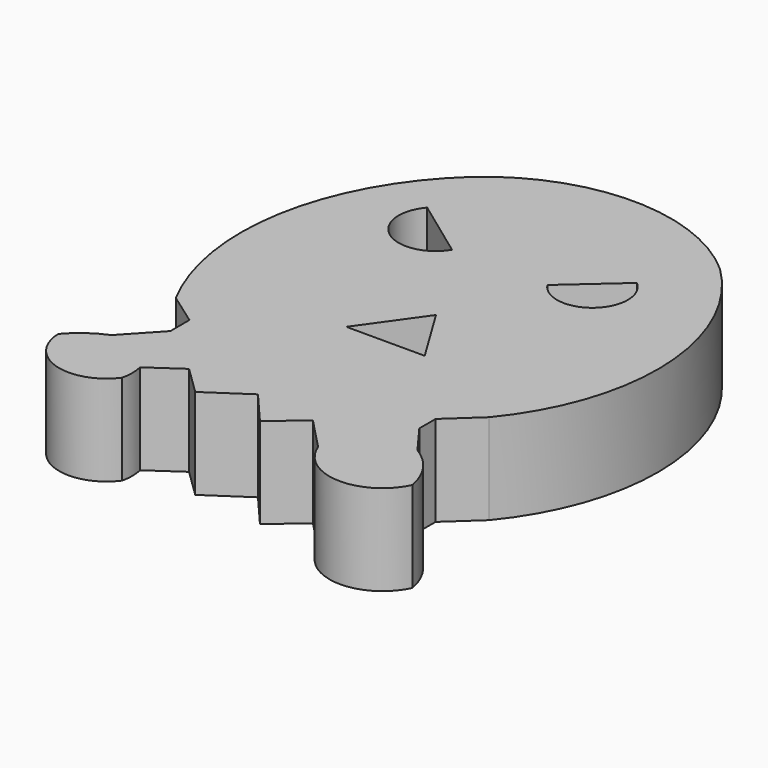
from build123d import *

# Parameters (mm, degrees)
F1_DEPTH = 8
F2_DEPTH = 25


with BuildPart() as f1:
    # F0 (on Top) → F1 (new body)
    with BuildSketch(Plane.XY):
        with BuildLine():
            Line((-49.977526, -41.605607), (-58.697784, -50.980339))
            ThreePointArc((-58.697784, -50.980339), (-55.746943, -49.98082), (-52.693043, -49.364224))
            ThreePointArc((-52.693043, -49.364224), (-47.439924, -53.121601), (-44.515088, -58.879941))
            Line((-44.515088, -58.879941), (-35.81804, -52.855607))
            Line((-35.81804, -52.855607), (-28.059421, -60.42026))
            Line((-28.059421, -60.42026), (-16.80702, -52.855607))
            Line((-16.80702, -52.855607), (-8.662867, -62.359914))
            Line((-8.662867, -62.359914), (0, -54.936784))
            Line((0, -54.936784), (8.631467, -63.911639))
            ThreePointArc((8.631467, -63.911639), (11.744426, -54.491495), (20.237995, -49.364224))
            ThreePointArc((20.237995, -49.364224), (23.355468, -50.303762), (26.277462, -51.740186))
            Line((26.277462, -51.740186), (20.237995, -43.545261))
            Line((20.237995, -43.545261), (20.237995, -37.920259))
            Line((20.237995, -37.920259), (28.72714, -30.080417))
            ThreePointArc((28.72714, -30.080417), (43.074733, 13.306863), (24.342671, 54.989226))
            ThreePointArc((24.342671, 54.989226), (-9.855567, 68.032469), (-44.127155, 55.183191))
            ThreePointArc((-44.127155, 55.183191), (-65.822797, 15.690348), (-58.705974, -28.803879))
            Line((-58.705974, -28.803879), (-49.977526, -35.010777))
            Line((-49.977526, -35.010777), (-49.977526, -41.605607))
        make_face()
        Polygon((0, -16.390087), (-21.627156, -16.390087), (-9.989223, 0), align=None, mode=Mode.SUBTRACT)
        with BuildLine():
            ThreePointArc((-26.282329, 25.894396), (-41.063186, 22.944871), (-42.769399, 37.920259))
            Line((-42.769399, 37.920259), (-26.282329, 25.894396))
        make_face(mode=Mode.SUBTRACT)
        with BuildLine():
            ThreePointArc((14.450433, 38.696121), (14.608633, 23.960948), (0, 25.894396))
            Line((0, 25.894396), (14.450433, 38.696121))
        make_face(mode=Mode.SUBTRACT)
    extrude(amount=F1_DEPTH)

    # F0 (on Top) → F2 (join)
    with BuildSketch(Plane.XY):
        with BuildLine():
            ThreePointArc((-54.989226, -57.375513), (-61.534535, -55.666613), (-67.984916, -57.704747))
            ThreePointArc((-67.984916, -57.704747), (-58.884264, -69.778136), (-44.515088, -65.075435))
            ThreePointArc((-44.515088, -65.075435), (-48.164701, -59.06607), (-54.989226, -57.375513))
        make_face()
        with BuildLine():
            ThreePointArc((-58.697784, -50.980339), (-63.740644, -53.791075), (-67.984916, -57.704747))
            ThreePointArc((-67.984916, -57.704747), (-61.534535, -55.666613), (-54.989226, -57.375513))
            ThreePointArc((-54.989226, -57.375513), (-48.164701, -59.06607), (-44.515088, -65.075435))
            ThreePointArc((-44.515088, -65.075435), (-44.157255, -61.977688), (-44.515088, -58.879941))
            ThreePointArc((-44.515088, -58.879941), (-47.439924, -53.121601), (-52.693043, -49.364224))
            ThreePointArc((-52.693043, -49.364224), (-55.746943, -49.98082), (-58.697784, -50.980339))
        make_face()
        with BuildLine():
            Line((-49.977526, -41.605607), (-58.697784, -50.980339))
            ThreePointArc((-58.697784, -50.980339), (-55.746943, -49.98082), (-52.693043, -49.364224))
            ThreePointArc((-52.693043, -49.364224), (-47.439924, -53.121601), (-44.515088, -58.879941))
            Line((-44.515088, -58.879941), (-35.81804, -52.855607))
            Line((-35.81804, -52.855607), (-28.059421, -60.42026))
            Line((-28.059421, -60.42026), (-16.80702, -52.855607))
            Line((-16.80702, -52.855607), (-8.662867, -62.359914))
            Line((-8.662867, -62.359914), (0, -54.936784))
            Line((0, -54.936784), (8.631467, -63.911639))
            ThreePointArc((8.631467, -63.911639), (11.744426, -54.491495), (20.237995, -49.364224))
            ThreePointArc((20.237995, -49.364224), (23.355468, -50.303762), (26.277462, -51.740186))
            Line((26.277462, -51.740186), (20.237995, -43.545261))
            Line((20.237995, -43.545261), (20.237995, -37.920259))
            Line((20.237995, -37.920259), (28.72714, -30.080417))
            ThreePointArc((28.72714, -30.080417), (43.074733, 13.306863), (24.342671, 54.989226))
            ThreePointArc((24.342671, 54.989226), (-9.855567, 68.032469), (-44.127155, 55.183191))
            ThreePointArc((-44.127155, 55.183191), (-65.822797, 15.690348), (-58.705974, -28.803879))
            Line((-58.705974, -28.803879), (-49.977526, -35.010777))
            Line((-49.977526, -35.010777), (-49.977526, -41.605607))
        make_face()
        Polygon((0, -16.390087), (-21.627156, -16.390087), (-9.989223, 0), align=None, mode=Mode.SUBTRACT)
        with BuildLine():
            ThreePointArc((-26.282329, 25.894396), (-41.063186, 22.944871), (-42.769399, 37.920259))
            Line((-42.769399, 37.920259), (-26.282329, 25.894396))
        make_face(mode=Mode.SUBTRACT)
        with BuildLine():
            ThreePointArc((14.450433, 38.696121), (14.608633, 23.960948), (0, 25.894396))
            Line((0, 25.894396), (14.450433, 38.696121))
        make_face(mode=Mode.SUBTRACT)
        with BuildLine():
            ThreePointArc((22.355094, -58.863486), (14.893383, -59.756716), (8.631467, -63.911639))
            ThreePointArc((8.631467, -63.911639), (21.724486, -73.472528), (35.592671, -65.075435))
            ThreePointArc((35.592671, -65.075435), (29.710772, -60.399159), (22.355094, -58.863486))
        make_face()
        with BuildLine():
            ThreePointArc((20.237995, -49.364224), (11.744426, -54.491495), (8.631467, -63.911639))
            ThreePointArc((8.631467, -63.911639), (14.893383, -59.756716), (22.355094, -58.863486))
            ThreePointArc((22.355094, -58.863486), (29.710772, -60.399159), (35.592671, -65.075435))
            ThreePointArc((35.592671, -65.075435), (32.363421, -57.410047), (26.277462, -51.740186))
            ThreePointArc((26.277462, -51.740186), (23.355468, -50.303762), (20.237995, -49.364224))
        make_face()
    extrude(amount=F2_DEPTH)


solid = f1.part
